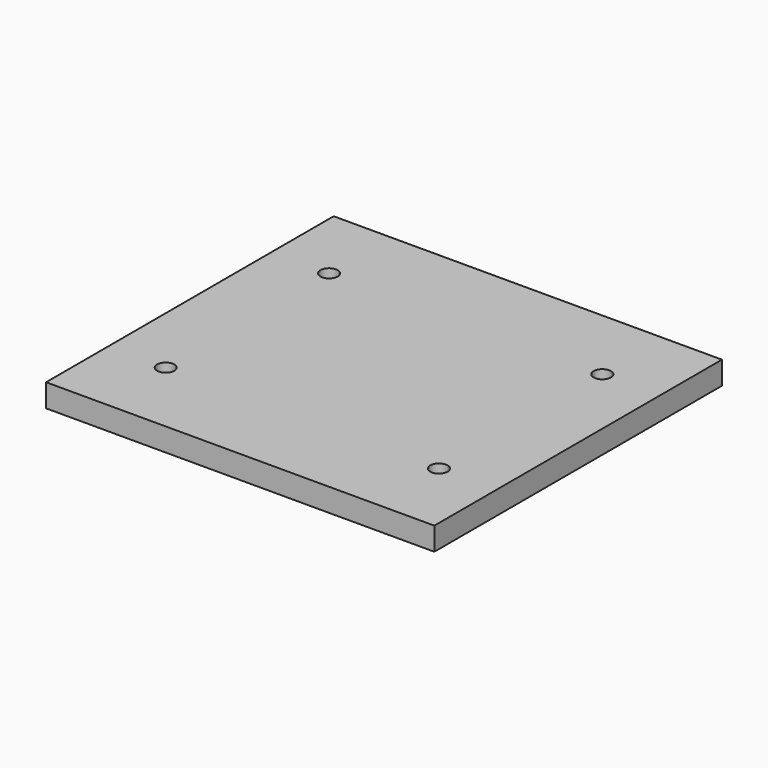
from build123d import *

# Parameters (mm, degrees)
F0_W     = 135
F0_H     = 125
F0_W_2   = 95
F0_H_2   = 65
F1_DEPTH = 8
F3_D     = 6


with BuildPart() as f1:
    # F0 (on Top) → F1 (new body)
    with BuildSketch(Plane.XY):
        Rectangle(F0_W, F0_H)
        Rectangle(F0_W_2, F0_H_2, mode=Mode.SUBTRACT)
        Rectangle(F0_W_2, F0_H_2)
    extrude(amount=F1_DEPTH)

    # F3 (through all)
    with Locations(Plane.XY.offset(8)):
        with Locations((47.5, -35.5), (-47.5, -35.5), (-47.5, 35.5), (47.5, 35.5)):
            Hole(F3_D / 2)


solid = f1.part
